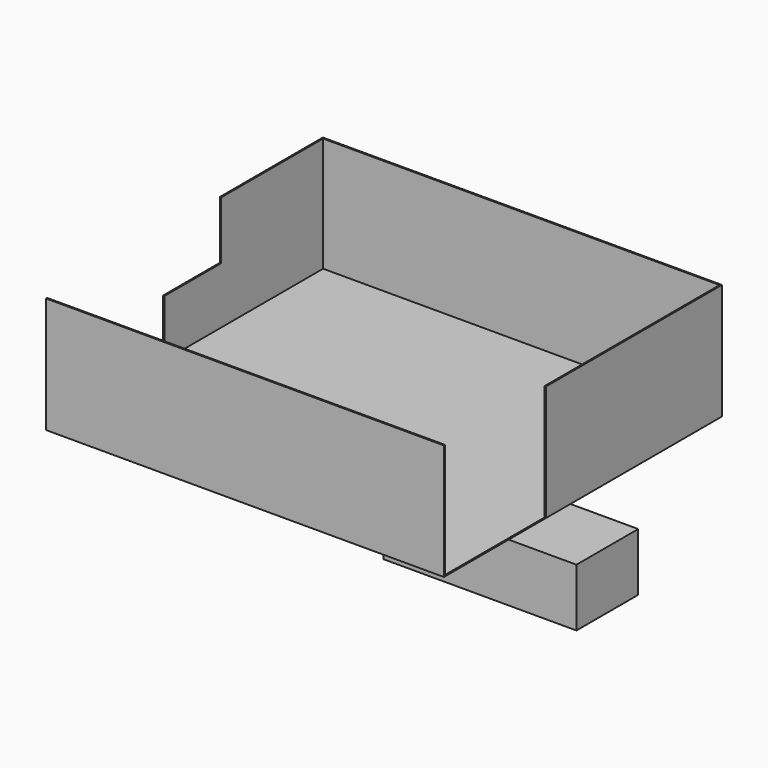
from build123d import *

# Parameters (mm, degrees)
F1_DEPTH = 1
F0_W     = 1
F0_H     = 99
F0_H_2   = 170
F0_W_2   = 309
F0_H_3   = 1
F2_DEPTH = 90
F0_H_4   = 55
F3_DEPTH = 45
F4_W     = 60
F4_H     = 45
F5_DEPTH = 150


with BuildPart() as f1:
    # F0 (on Top) → F1 (new body)
    with BuildSketch(Plane.XY):
        Polygon((-154, -134), (155, -134), (155, -36), (154, -36), (154, 134), (-154, 134), (-154, 35), (-154, -20), (-154, -132.63689), align=None)
    extrude(amount=F1_DEPTH)

    # F0 (on Top) → F2 (join)
    with BuildSketch(Plane.XY):
        Polygon((154, 134), (155, 134), (155, 135), (-155, 135), (-155, 134), (-154, 134), align=None)
        with Locations((-154.5, 84.5)):
            Rectangle(F0_W, F0_H)
        with Locations((154.5, 49)):
            Rectangle(F0_W, F0_H_2)
        with Locations((0.5, -134.5)):
            Rectangle(F0_W_2, F0_H_3)
    extrude(amount=F2_DEPTH)

    # F0 (on Top) → F3 (join)
    with BuildSketch(Plane.XY):
        with Locations((-154.5, 7.5)):
            Rectangle(F0_W, F0_H_4)
    extrude(amount=F3_DEPTH)


with BuildPart() as f5:
    # F4 (on Right) → F5 (new body)
    with BuildSketch(Plane.YZ):
        with Locations((30, -70.577434)):
            Rectangle(F4_W, F4_H)
    extrude(amount=F5_DEPTH)


solid = Compound([f1.part, f5.part])
